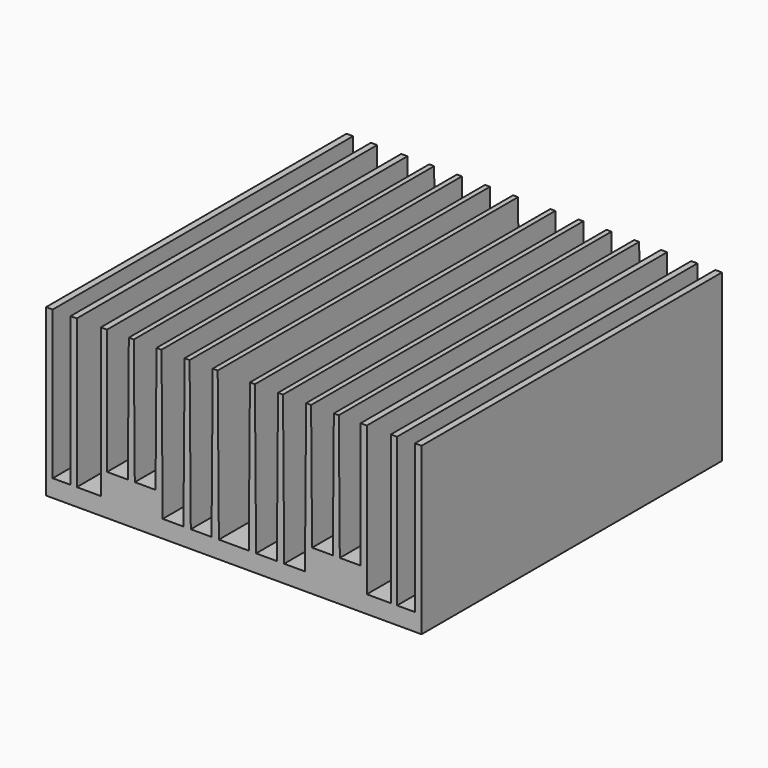
from build123d import *

# Parameters (mm, degrees)
PAD_DEPTH = 90.5


with BuildPart() as part:
    # Sketch → Pad (new body)
    with BuildSketch(Plane.XZ):
        Polygon((-45.25, 0), (-45.25, 40), (-43.65, 40), (-43.65, 4.2), (-39.35, 4.2), (-39.35, 40), (-37.85, 40), (-37.85, 4.2), (-32.05, 4.2), (-32.05, 40), (-30.55, 40), (-30.55, 9.8), (-25.55, 9.8), (-25.309162, 40), (-24.109162, 40), (-23.868323, 9.8), (-18.868323, 9.8), (-18.627485, 40), (-17.427485, 40), (-17.141988, 4.2), (-12.141988, 4.2), (-11.856491, 40), (-10.656491, 40), (-10.370994, 4.2), (-5.370994, 4.2), (-5.085497, 40), (-3.885497, 40), (-3.6, 4.2), (3.6, 4.2), (3.885497, 40), (5.085497, 40), (5.370994, 4.2), (10.370994, 4.2), (10.656491, 40), (11.856491, 40), (12.141988, 4.2), (17.141988, 4.2), (17.427485, 40), (18.627485, 40), (18.868323, 9.8), (23.868323, 9.8), (24.109162, 40), (25.309162, 40), (25.55, 9.8), (30.55, 9.8), (30.55, 40), (32.05, 40), (32.05, 4.2), (37.85, 4.2), (37.85, 40), (39.35, 40), (39.35, 4.2), (43.65, 4.2), (43.65, 40), (45.25, 40), (45.25, 0), align=None)
    extrude(amount=PAD_DEPTH)


solid = part.part
